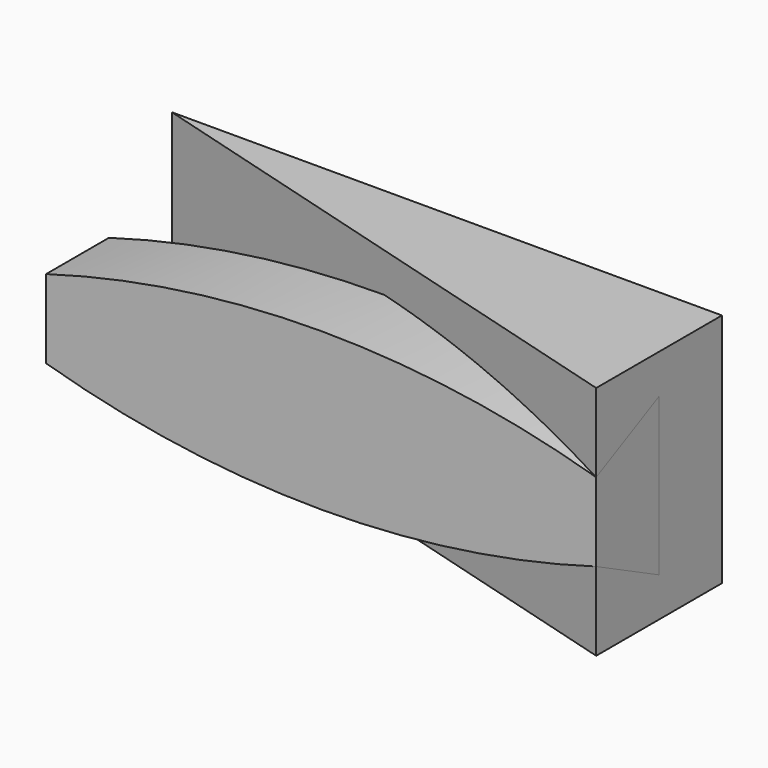
from build123d import *

# Parameters (mm, degrees)
F0_W          = 88.9
F0_H          = 38.1
F1_DEPTH      = 25.4
F3_DEPTH      = 12.7
F5_DEPTH      = 25.4
F5_DEPTH_BACK = 25.4
F7_DEPTH      = 50.8
F9_DEPTH      = 44.45
F10_DEPTH     = 12.7


with BuildPart() as f1:
    # F0 (on Front) → F1 (new body)
    with BuildSketch(Plane.XZ):
        Rectangle(F0_W, F0_H)
    extrude(amount=-F1_DEPTH)

    # F2 (on Front) → F3 (cut)
    with BuildSketch(Plane.XZ):
        with BuildLine():
            Line((44.45, -6.35), (44.45, 6.35))
            ThreePointArc((44.45, 6.35), (0, 12.7), (-44.45, 6.35))
            Line((-44.45, 6.35), (-44.45, -6.35))
            ThreePointArc((-44.45, -6.35), (0, -12.7), (44.45, -6.35))
        make_face()
    extrude(amount=-F3_DEPTH, mode=Mode.SUBTRACT)

    # F4 (on Top) → F5 (cut, two sides)
    with BuildSketch(Plane.XY) as f5_sk:
        Polygon((-44.45, 0), (44.45, 0), (-44.45, 25.4), align=None)
    extrude(amount=-F5_DEPTH, mode=Mode.SUBTRACT)
    extrude(f5_sk.sketch, amount=F5_DEPTH_BACK, mode=Mode.SUBTRACT)

    # F6 (on face) → F7 (cut)
    with BuildSketch(Plane.YZ.offset(44.45)):
        Polygon((12.7, 6.35), (12.7, 12.7), (0, 6.35), align=None)
        Polygon((12.7, -12.7), (12.7, -6.35), (0, -6.35), align=None)
    extrude(amount=-F7_DEPTH, mode=Mode.SUBTRACT)


with BuildPart() as f9:
    # F8 (on face) → F9 (new body)
    with BuildSketch(Plane.YZ.offset(44.45)):
        Polygon((12.7, -12.7), (12.7, 12.7), (0, 6.35), (0, -6.35), align=None)
    extrude(amount=-F9_DEPTH)

    # F2 (on Front) → F10 (join)
    with BuildSketch(Plane.XZ):
        with BuildLine():
            Line((44.45, -6.35), (44.45, 6.35))
            ThreePointArc((44.45, 6.35), (0, 12.7), (-44.45, 6.35))
            Line((-44.45, 6.35), (-44.45, -6.35))
            ThreePointArc((-44.45, -6.35), (0, -12.7), (44.45, -6.35))
        make_face()
    extrude(amount=-F10_DEPTH)


solid = Compound([f1.part, f9.part])
